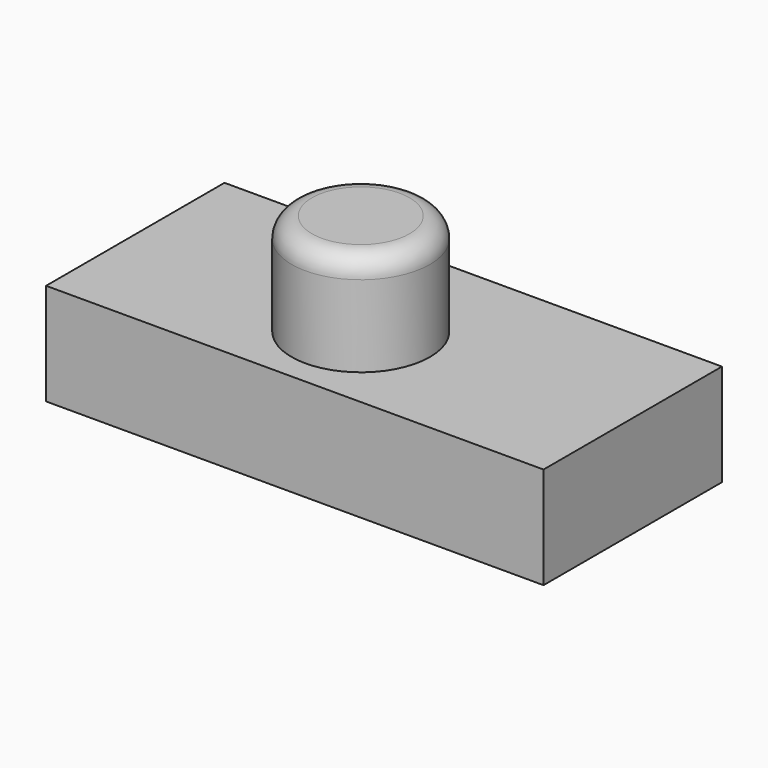
from build123d import *

# Parameters (mm, degrees)
F0_W     = 124.079682
F0_H     = 55.621927
F1_DEPTH = 25.4
F2_R     = 17.251533
F3_DEPTH = 25.4
F4_R     = 5.08
F5_R     = 7.02462
F6_DEPTH = 7.62
F7_R     = 5.08


with BuildPart() as f1:
    # F0 (on Top) → F1 (new body)
    with BuildSketch(Plane.XY):
        with Locations((2.139304, 4.563851)):
            Rectangle(F0_W, F0_H)
    extrude(amount=F1_DEPTH)

    # F2 (on face) → F3 (join)
    with BuildSketch(Plane.XY.offset(25.4)):
        Circle(F2_R)
    extrude(amount=F3_DEPTH)

    # F4
    f4_edges = [f1.edges().sort_by_distance(p)[0] for p in [
        (-17.251533, 0, 50.8),
    ]]
    fillet(f4_edges, radius=F4_R)

    # F5 (on face) → F6 (join)
    with BuildSketch(Plane(origin=(0, 32.374814, 0), x_dir=(-1, 0, 0), z_dir=(0, 1, 0))):
        with Locations((-42.026419, 9.035506)):
            Circle(F5_R)
    extrude(amount=F6_DEPTH)

    # F7
    f7_edges = [f1.edges().sort_by_distance(p)[0] for p in [
        (49.051039, 39.994814, 9.035506),
    ]]
    fillet(f7_edges, radius=F7_R)


solid = f1.part
